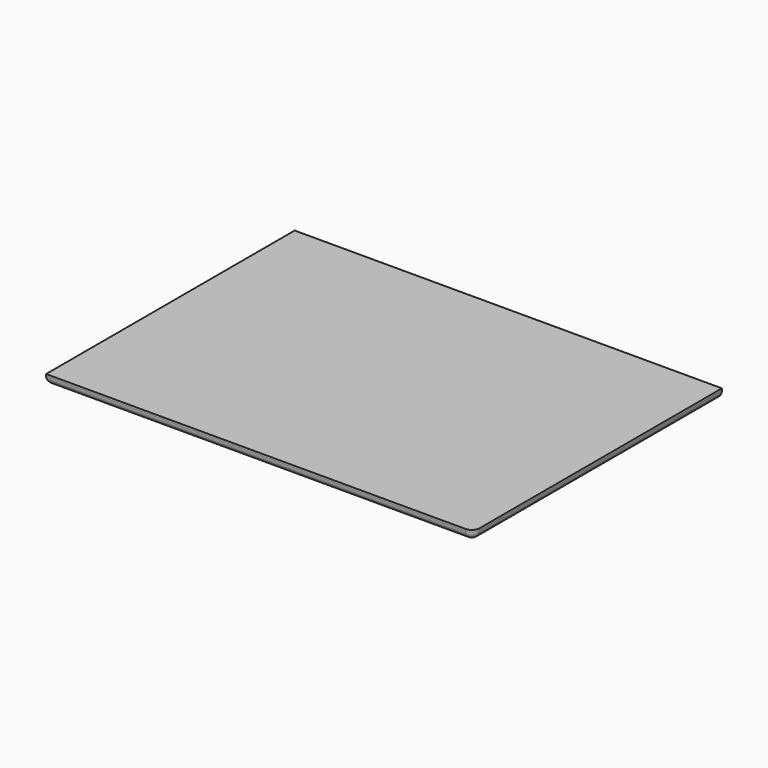
from build123d import *

# Parameters (mm, degrees)
F0_W     = 279.4
F0_H     = 203.2
F1_DEPTH = 6.35
F2_R     = 5.08
F3_R     = 5.08


with BuildPart() as f1:
    # F0 (on Top) → F1 (new body)
    with BuildSketch(Plane.XY):
        with Locations((139.7, -101.6)):
            Rectangle(F0_W, F0_H)
    extrude(amount=F1_DEPTH)

    # F2
    f2_edges = [f1.edges().sort_by_distance(p)[0] for p in [
        (139.7, -203.2, 0),
        (0, -101.6, 0),
    ]]
    fillet(f2_edges, radius=F2_R)

    # F3
    f3_edges = [f1.edges().sort_by_distance(p)[0] for p in [
        (279.4, -99.06, 0),
    ]]
    fillet(f3_edges, radius=F3_R)


solid = f1.part
